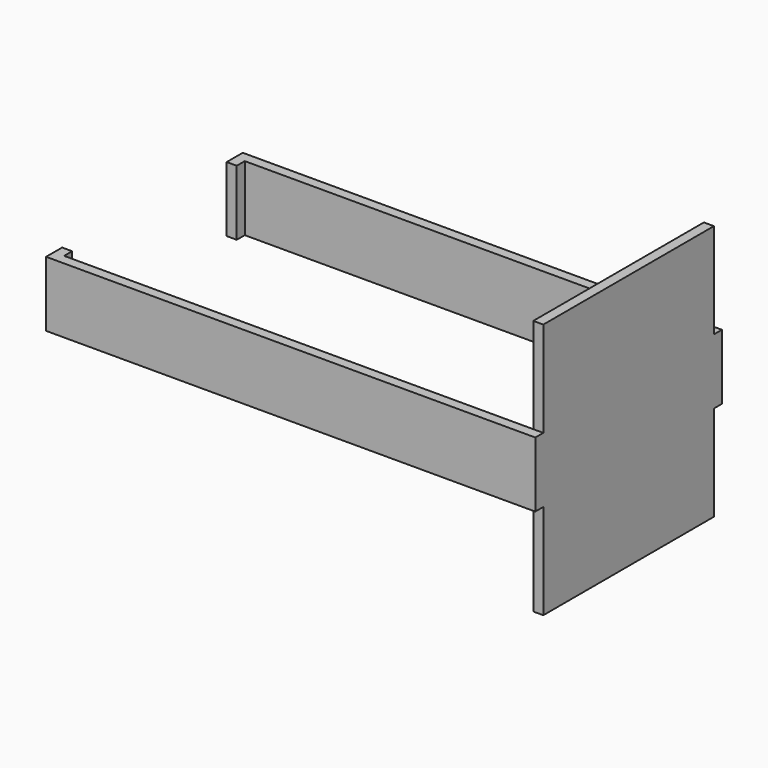
from build123d import *

# Parameters (mm, degrees)
F0_W       = 46.99
F0_H       = 6.604
F1_DEPTH   = 1.016
F2_W       = 0.508
F2_H       = 6.604
F2_W_2     = 1.016
F3_DEPTH   = 1.016
F4_W       = 1.016
F4_H       = 6.604
F5_DEPTH   = 1.016
F6_W       = 1.016
F6_H       = 6.604
F7_DEPTH   = 21.59
F7_FACE_W  = 1.016
F7_FACE_H  = 6.604
F8_DEPTH   = 1.016
F9_W       = 1.016
F9_H       = 6.604
F10_DEPTH  = 46.99
F10_FACE_W = 1.016
F10_FACE_H = 6.604
F11_DEPTH  = 1.524
F12_W      = 1.016
F12_H      = 6.604
F13_DEPTH  = 1.016
F14_W      = 1.016
F14_H      = 21.59
F16_DEPTH  = 9.652
F17_W      = 1.016
F17_H      = 21.59
F18_DEPTH  = 9.652


with BuildPart() as f1:
    # F0 (on Front) → F1 (new body)
    with BuildSketch(Plane.XZ):
        with Locations((-23.495, 3.302)):
            Rectangle(F0_W, F0_H)
    extrude(amount=F1_DEPTH)

    # F2 (on face) → F3 (join)
    with BuildSketch(Plane.XZ.offset(1.016)):
        with Locations((-47.244, 3.302)):
            Rectangle(F2_W, F2_H)
        with Locations((-48.006, 3.302)):
            Rectangle(F2_W_2, F2_H)
    extrude(amount=-F3_DEPTH)

    # F4 (on face) → F5 (join)
    with BuildSketch(Plane.XZ.offset(1.016)):
        with Locations((-48.006, 3.302)):
            Rectangle(F4_W, F4_H)
    extrude(amount=F5_DEPTH)

    # F6 (on face) → F7 (join)
    with BuildSketch(Plane.XZ.offset(1.016)):
        with Locations((-0.508, 3.302)):
            Rectangle(F6_W, F6_H)
    extrude(amount=F7_DEPTH)

    # F7_face (on face) → F8 (join)
    with BuildSketch(Plane(origin=(-0.508, -22.606, 3.302), x_dir=(1, 0, 0), z_dir=(0, -1, 0))):
        Rectangle(F7_FACE_W, F7_FACE_H)
    extrude(amount=F8_DEPTH)

    # F9 (on face) → F10 (join)
    with BuildSketch(Plane(origin=(-1.016, 0, 0), x_dir=(0, -1, 0), z_dir=(-1, 0, 0))):
        with Locations((23.114, 3.302)):
            Rectangle(F9_W, F9_H)
    extrude(amount=F10_DEPTH)

    # F10_face (on face) → F11 (join)
    with BuildSketch(Plane(origin=(-48.006, -23.114, 3.302), x_dir=(0, -1, 0), z_dir=(-1, 0, 0))):
        Rectangle(F10_FACE_W, F10_FACE_H)
    extrude(amount=F11_DEPTH)

    # F12 (on face) → F13 (join)
    with BuildSketch(Plane(origin=(0, -22.606, 0), x_dir=(-1, 0, 0), z_dir=(0, 1, 0))):
        with Locations((49.022, 3.302)):
            Rectangle(F12_W, F12_H)
    extrude(amount=F13_DEPTH)

    # F14 (on face) → F16 (join)
    with BuildSketch(Plane.XY.offset(6.604)):
        with Locations((-0.508, -11.811)):
            Rectangle(F14_W, F14_H)
    extrude(amount=F16_DEPTH)

    # F17 (on face) → F18 (join)
    with BuildSketch(Plane(origin=(0, 0, 0), x_dir=(1, 0, 0), z_dir=(0, 0, -1))):
        with Locations((-0.508, 11.811)):
            Rectangle(F17_W, F17_H)
    extrude(amount=F18_DEPTH)


solid = f1.part
